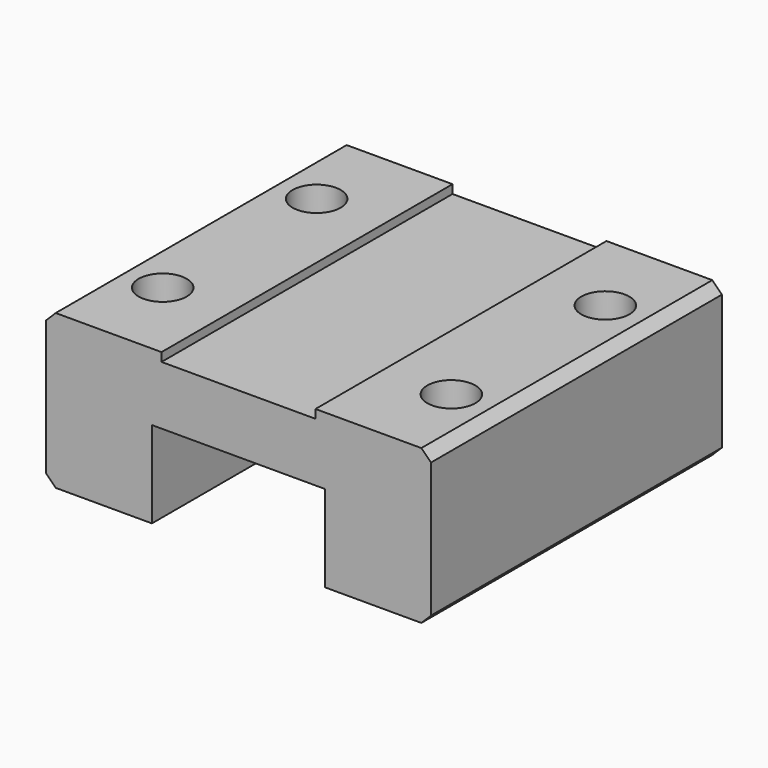
from build123d import *

# Parameters (mm, degrees)
PAD001_DEPTH    = 9.45
CHAMFER001_SIZE = 0.5
SKETCH003_R     = 1.25
HOLE_DEPTH      = 4.4
HOLE_TIPS_R     = 1.25


with BuildPart() as part:
    # ShapeBinder → Pad001 (new body, symmetric)
    with BuildSketch(Plane(origin=(0, 0, 4), x_dir=(1, 0, 0), z_dir=(0, 1, 0))):
        Polygon((-4.5, 4), (-10, 4), (-10, -4), (-4, -4), (-4, -3.55), (4, -3.55), (4, -4), (10, -4), (10, 4), (4.5, 4), (4.5, -0.5), (-4.5, -0.5), align=None)
    extrude(amount=PAD001_DEPTH, both=True)

    # Chamfer001
    chamfer001_edges = [part.edges().sort_by_distance(p)[0] for p in [
        (-10, 0, 8),
        (10, 0, 8),
        (10, 0, 0),
        (-10, 0, 0),
    ]]
    chamfer(chamfer001_edges, length=CHAMFER001_SIZE)

    # Sketch003 (on Face18 of Chamfer001) → Hole (cut)
    with BuildSketch(Plane(origin=(0, 0, 8), x_dir=(-1, 0, 0), z_dir=(0, 0, 1))):
        with Locations((-7.5, 5)):
            Circle(SKETCH003_R)
        with Locations((7.5, 5)):
            Circle(SKETCH003_R)
        with Locations((-7.5, -5)):
            Circle(SKETCH003_R)
        with Locations((7.5, -5)):
            Circle(SKETCH003_R)
    extrude(amount=-HOLE_DEPTH, mode=Mode.SUBTRACT)

    # Hole tips → Hole tip 1 section 0
    with BuildSketch(Plane(origin=(0, 0, 3.6), x_dir=(-1, 0, 0), z_dir=(0, 0, 1)), mode=Mode.PRIVATE) as hole_tip_1_s0:
        with Locations((-7.5, 5)):
            Circle(HOLE_TIPS_R)
    loft([hole_tip_1_s0.sketch, Vertex(7.5, -5, 2.848924)], mode=Mode.SUBTRACT)

    # Hole tips → Hole tip 2 section 0
    with BuildSketch(Plane(origin=(0, 0, 3.6), x_dir=(-1, 0, 0), z_dir=(0, 0, 1)), mode=Mode.PRIVATE) as hole_tip_2_s0:
        with Locations((7.5, 5)):
            Circle(HOLE_TIPS_R)
    loft([hole_tip_2_s0.sketch, Vertex(-7.5, -5, 2.848924)], mode=Mode.SUBTRACT)

    # Hole tips → Hole tip 3 section 0
    with BuildSketch(Plane(origin=(0, 0, 3.6), x_dir=(-1, 0, 0), z_dir=(0, 0, 1)), mode=Mode.PRIVATE) as hole_tip_3_s0:
        with Locations((-7.5, -5)):
            Circle(HOLE_TIPS_R)
    loft([hole_tip_3_s0.sketch, Vertex(7.5, 5, 2.848924)], mode=Mode.SUBTRACT)

    # Hole tips → Hole tip 4 section 0
    with BuildSketch(Plane(origin=(0, 0, 3.6), x_dir=(-1, 0, 0), z_dir=(0, 0, 1)), mode=Mode.PRIVATE) as hole_tip_4_s0:
        with Locations((7.5, -5)):
            Circle(HOLE_TIPS_R)
    loft([hole_tip_4_s0.sketch, Vertex(-7.5, 5, 2.848924)], mode=Mode.SUBTRACT)


solid = part.part
